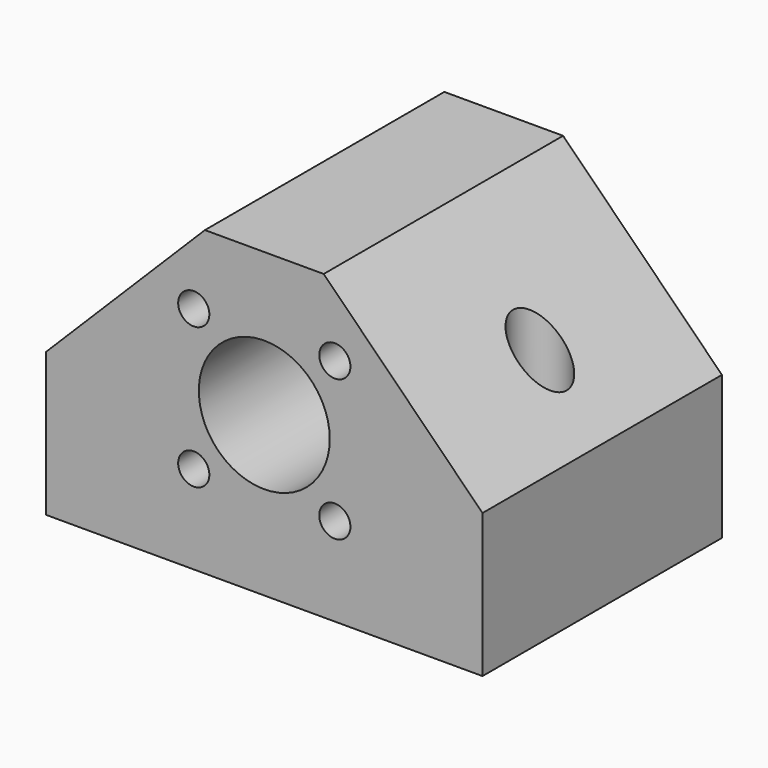
from build123d import *

# Parameters (mm, degrees)
F0_W     = 35
F0_H     = 24
F0_R     = 2.15
F1_DEPTH = 35
F2_R     = 1.25
F2_R_2   = 5.25
F3_DEPTH = 12


with BuildPart() as f1:
    # F0 (on Top) → F1 (new body)
    with BuildSketch(Plane.XY):
        Rectangle(F0_W, F0_H)
        with Locations((-12.5, 0)):
            Circle(F0_R, mode=Mode.SUBTRACT)
        with Locations((12.5, 0)):
            Circle(F0_R, mode=Mode.SUBTRACT)
    extrude(amount=F1_DEPTH)

    # F2 (on Front) → F3 (intersect, symmetric)
    with BuildSketch(Plane.XZ):
        with BuildLine():
            ThreePointArc((0, 24.25), (4.400859, 23.374615), (8.131728, 20.881728))
            Line((8.131728, 20.881728), (4.763456, 24.25))
            Line((4.763456, 24.25), (0, 24.25))
        make_face()
        with BuildLine():
            ThreePointArc((-8.131728, 20.881728), (-4.400859, 23.374615), (0, 24.25))
            Line((0, 24.25), (-4.763456, 24.25))
            Line((-4.763456, 24.25), (-8.131728, 20.881728))
        make_face()
        with BuildLine():
            Line((11.5, 0), (11.5, 12.75))
            ThreePointArc((11.5, 12.75), (10.624615, 17.150859), (8.131728, 20.881728))
            ThreePointArc((8.131728, 20.881728), (4.400859, 23.374615), (0, 24.25))
            ThreePointArc((0, 24.25), (-4.400859, 23.374615), (-8.131728, 20.881728))
            ThreePointArc((-8.131728, 20.881728), (-10.624615, 17.150859), (-11.5, 12.75))
            Line((-11.5, 12.75), (-11.5, 0))
            Line((-11.5, 0), (11.5, 0))
        make_face()
        with Locations((-5.656854, 7.093146)):
            Circle(F2_R, mode=Mode.SUBTRACT)
        with Locations((5.656854, 7.093146)):
            Circle(F2_R, mode=Mode.SUBTRACT)
        with Locations((0, 12.75)):
            Circle(F2_R_2, mode=Mode.SUBTRACT)
        with Locations((-5.656854, 18.406854)):
            Circle(F2_R, mode=Mode.SUBTRACT)
        with Locations((5.656854, 18.406854)):
            Circle(F2_R, mode=Mode.SUBTRACT)
        with BuildLine():
            Line((-17.5, 0), (-11.5, 0))
            Line((-11.5, 0), (-11.5, 12.75))
            ThreePointArc((-11.5, 12.75), (-10.624615, 17.150859), (-8.131728, 20.881728))
            Line((-8.131728, 20.881728), (-17.5, 11.513456))
            Line((-17.5, 11.513456), (-17.5, 0))
        make_face()
        with BuildLine():
            ThreePointArc((8.131728, 20.881728), (10.624615, 17.150859), (11.5, 12.75))
            Line((11.5, 12.75), (11.5, 0))
            Line((11.5, 0), (17.5, 0))
            Line((17.5, 0), (17.5, 11.513456))
            Line((17.5, 11.513456), (8.131728, 20.881728))
        make_face()
    extrude(amount=F3_DEPTH, both=True, mode=Mode.INTERSECT)


solid = f1.part
